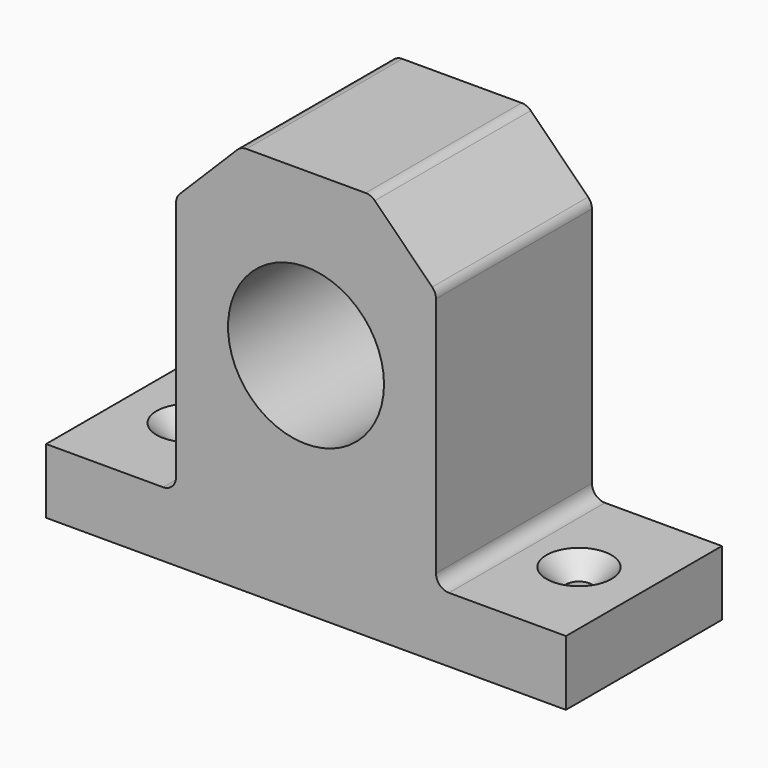
from build123d import *

# Parameters (mm, degrees)
F0_W           = 20
F0_H           = 25
F0_R           = 6
F1_DEPTH       = 15
F2_SIZE        = 5
F4_D           = 2
F4_CSINK_D     = 5
F4_CSINK_ANGLE = 90
F5_R           = 1


with BuildPart() as f1:
    # F0 (on Front) → F1 (new body)
    with BuildSketch(Plane.XZ):
        Rectangle(F0_W, F0_H)
        Circle(F0_R, mode=Mode.SUBTRACT)
        Polygon((20, -12.5), (10, -12.5), (-10, -12.5), (-20, -12.5), (-20, -17.5), (20, -17.5), align=None)
    extrude(amount=F1_DEPTH)

    # F2
    f2_edges = [f1.edges().sort_by_distance(p)[0] for p in [
        (10, -7.5, 12.5),
        (-10, -7.5, 12.5),
    ]]
    chamfer(f2_edges, length=F2_SIZE)

    # F4 (through all)
    with Locations(Plane.XY.offset(-12.5)):
        with Locations((15, -7.5), (-15, -7.5)):
            CounterSinkHole(F4_D / 2, F4_CSINK_D / 2, counter_sink_angle=F4_CSINK_ANGLE)

    # F5
    f5_edges = [f1.edges().sort_by_distance(p)[0] for p in [
        (-10, -7.5, -12.5),
        (-10, -7.5, 7.5),
        (-5, -7.5, 12.5),
        (5, -7.5, 12.5),
        (10, -7.5, 7.5),
        (10, -7.5, -12.5),
    ]]
    fillet(f5_edges, radius=F5_R)


solid = f1.part
